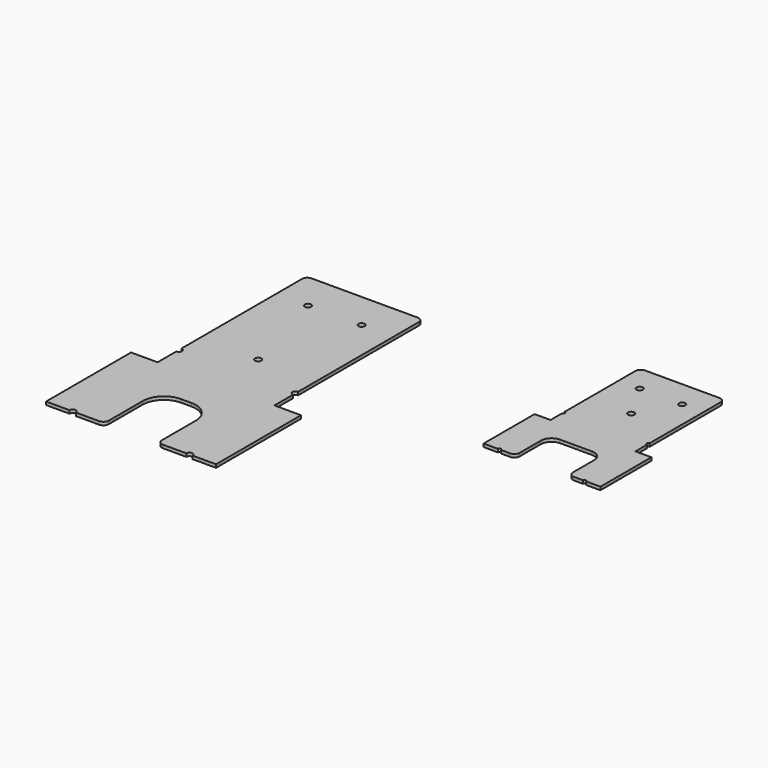
from build123d import *

# Parameters (mm, degrees)
F0_R     = 3
F1_DEPTH = 3
F2_R     = 3
F3_DEPTH = 3


with BuildPart() as f1:
    # F0 (on Top) → F1 (new body)
    with BuildSketch(Plane.XY):
        with BuildLine():
            Line((38.692252, 175.48232), (-61.307748, 175.48232))
            ThreePointArc((-61.307748, 175.48232), (-64.843282, 174.017854), (-66.307748, 170.48232))
            Line((-66.307748, 170.48232), (-66.307748, 28.48232))
            ThreePointArc((-66.307748, 28.48232), (-63.307748, 25.48232), (-66.307748, 22.48232))
            Line((-66.307748, 22.48232), (-66.307748, 0.48232))
            Line((-66.307748, 0.48232), (-91.307748, 0.48232))
            Line((-91.307748, 0.48232), (-91.307748, -99.51768))
            Line((-91.307748, -99.51768), (-69.307748, -99.51768))
            ThreePointArc((-69.307748, -99.51768), (-66.307748, -96.51768), (-63.307748, -99.51768))
            Line((-63.307748, -99.51768), (-41.307748, -99.51768))
            ThreePointArc((-41.307748, -99.51768), (-37.772214, -98.053214), (-36.307748, -94.51768))
            Line((-36.307748, -94.51768), (-36.307748, -54.51768))
            ThreePointArc((-36.307748, -54.51768), (-30.449884, -40.375545), (-16.307748, -34.51768))
            Line((-16.307748, -34.51768), (-6.307748, -34.51768))
            ThreePointArc((-6.307748, -34.51768), (7.834388, -40.375545), (13.692252, -54.51768))
            Line((13.692252, -54.51768), (13.692252, -94.51768))
            ThreePointArc((13.692252, -94.51768), (15.156718, -98.053214), (18.692252, -99.51768))
            Line((18.692252, -99.51768), (40.692252, -99.51768))
            ThreePointArc((40.692252, -99.51768), (43.692252, -96.51768), (46.692252, -99.51768))
            Line((46.692252, -99.51768), (68.692252, -99.51768))
            Line((68.692252, -99.51768), (68.692252, 0.48232))
            Line((68.692252, 0.48232), (43.692252, 0.48232))
            Line((43.692252, 0.48232), (43.692252, 22.48232))
            ThreePointArc((43.692252, 22.48232), (40.692252, 25.48232), (43.692252, 28.48232))
            Line((43.692252, 28.48232), (43.692252, 170.48232))
            ThreePointArc((43.692252, 170.48232), (42.227786, 174.017854), (38.692252, 175.48232))
        make_face()
        with Locations((-11.307748, 50)):
            Circle(F0_R, mode=Mode.SUBTRACT)
        with Locations((-36.307748, 140)):
            Circle(F0_R, mode=Mode.SUBTRACT)
        with Locations((13.692252, 140.48232)):
            Circle(F0_R, mode=Mode.SUBTRACT)
    extrude(amount=F1_DEPTH)


with BuildPart() as f3:
    # F2 (on Top) → F3 (new body)
    with BuildSketch(Plane.XY):
        with BuildLine():
            Line((291.652981, 214.169887), (221.652981, 214.169887))
            ThreePointArc((221.652981, 214.169887), (218.117447, 212.70542), (216.652981, 209.169887))
            Line((216.652981, 209.169887), (216.652981, 125.669887))
            ThreePointArc((216.652981, 125.669887), (218.152981, 124.169887), (216.652981, 122.669887))
            Line((216.652981, 122.669887), (216.652981, 109.169887))
            Line((216.652981, 109.169887), (201.652981, 109.169887))
            Line((201.652981, 109.169887), (201.652981, 49.169887))
            Line((201.652981, 49.169887), (215.152981, 49.169887))
            ThreePointArc((215.152981, 49.169887), (216.652981, 50.669887), (218.152981, 49.169887))
            Line((218.152981, 49.169887), (226.68386, 49.169887))
            ThreePointArc((226.68386, 49.169887), (230.017464, 50.443349), (231.652981, 53.615053))
            Line((231.652981, 53.615053), (231.652981, 79.169887))
            ThreePointArc((231.652981, 79.169887), (234.581913, 86.240954), (241.652981, 89.169887))
            Line((241.652981, 89.169887), (271.652981, 89.169887))
            ThreePointArc((271.652981, 89.169887), (278.724049, 86.240954), (281.652981, 79.169887))
            Line((281.652981, 79.169887), (281.652981, 54.172045))
            ThreePointArc((281.652981, 54.172045), (283.116964, 50.636994), (286.651615, 49.172045))
            Line((286.651615, 49.172045), (295.152981, 49.169722))
            ThreePointArc((295.152981, 49.169722), (296.652899, 50.669887), (298.152981, 49.169887))
            Line((298.152981, 49.169887), (311.652981, 49.169887))
            Line((311.652981, 49.169887), (311.652981, 109.169887))
            Line((311.652981, 109.169887), (296.652981, 109.169887))
            Line((296.652981, 109.169887), (296.652981, 122.669887))
            ThreePointArc((296.652981, 122.669887), (295.152981, 124.169887), (296.652981, 125.669887))
            Line((296.652981, 125.669887), (296.652981, 209.169887))
            ThreePointArc((296.652981, 209.169887), (295.188515, 212.70542), (291.652981, 214.169887))
        make_face()
        with Locations((236.652981, 189.169887)):
            Circle(F2_R, mode=Mode.SUBTRACT)
        with Locations((256.652981, 154.169887)):
            Circle(F2_R, mode=Mode.SUBTRACT)
        with Locations((276.652981, 189.169887)):
            Circle(F2_R, mode=Mode.SUBTRACT)
    extrude(amount=F3_DEPTH)


solid = Compound([f1.part, f3.part])
